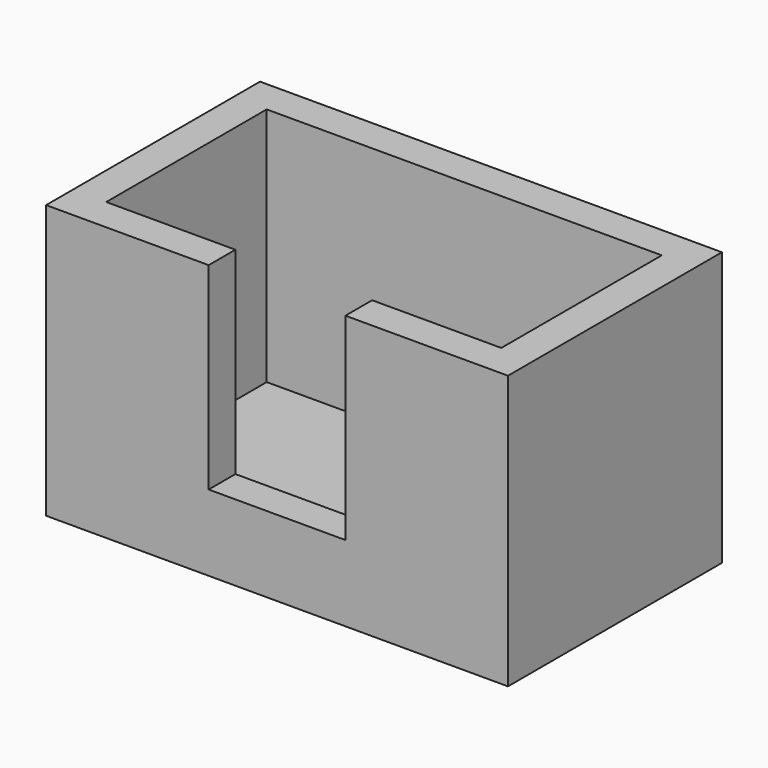
from build123d import *

# Parameters (mm, degrees)
F0_W     = 15.2
F0_H     = 8.8
F1_DEPTH = 9
F2_T     = -1.1
F3_W     = 4.5
F3_H     = 6.5
F4_DEPTH = 1.1


with BuildPart() as f1:
    # F0 (on Top) → F1 (new body)
    with BuildSketch(Plane.XY):
        with Locations((7.6, 4.4)):
            Rectangle(F0_W, F0_H)
    extrude(amount=F1_DEPTH)

    # F2
    f2_openings = [f1.faces().sort_by_distance(p)[0] for p in [
        (7.6, 4.4, 9),
    ]]
    offset(amount=F2_T, openings=f2_openings)

    # F3 (on face) → F4 (cut, through all)
    with BuildSketch(Plane.XZ):
        with Locations((7.6, 5.75)):
            Rectangle(F3_W, F3_H)
    extrude(amount=-F4_DEPTH, mode=Mode.SUBTRACT)


solid = f1.part
